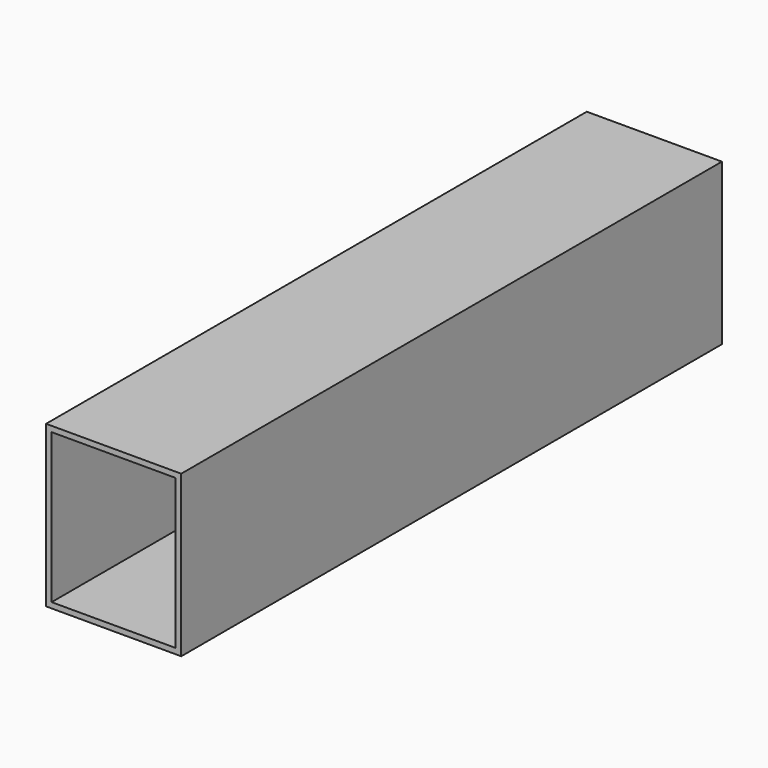
from build123d import *

# Parameters (mm, degrees)
F0_W     = 24.38
F0_H     = 121.92
F1_DEPTH = 29
F2_W     = 22.38
F2_H     = 27
F3_DEPTH = 121.921


with BuildPart() as f1:
    # F0 (on Top) → F1 (new body)
    with BuildSketch(Plane.XY):
        Rectangle(F0_W, F0_H)
    extrude(amount=F1_DEPTH)

    # F2 (on face) → F3 (cut, through all)
    with BuildSketch(Plane.XZ.offset(60.96)):
        with Locations((0, 14.5)):
            Rectangle(F2_W, F2_H)
    extrude(amount=-F3_DEPTH, mode=Mode.SUBTRACT)


solid = f1.part
